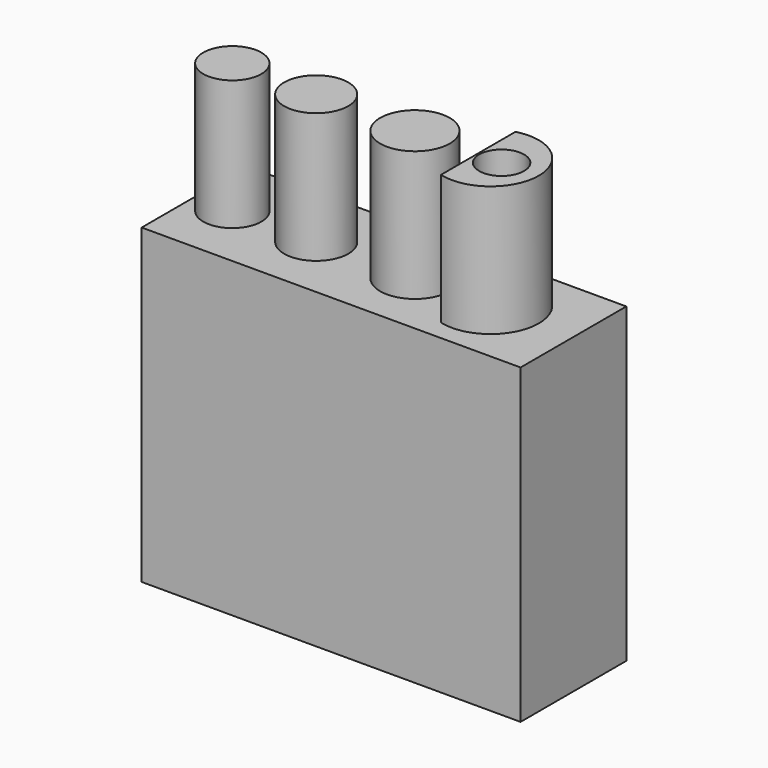
from build123d import *

# Parameters (mm, degrees)
F0_W     = 37.008646
F0_H     = 12.911984
F1_DEPTH = 30.48
F2_R     = 2.838357
F2_R_2   = 3.135029
F2_R_3   = 3.399574
F2_R_4   = 2.191964
F3_DEPTH = 12.7


with BuildPart() as f1:
    # F0 (on Top) → F1 (new body)
    with BuildSketch(Plane.XY):
        Rectangle(F0_W, F0_H)
    extrude(amount=F1_DEPTH)

    # F2 (on face) → F3 (join)
    with BuildSketch(Plane.XY.offset(30.48)):
        with Locations((-14.817033, 0)):
            Circle(F2_R)
        with Locations((-6.624883, 0)):
            Circle(F2_R_2)
        with Locations((3.023651, 0)):
            Circle(F2_R_3)
        with BuildLine():
            Line((9.122252, 4.647307), (9.122252, 0))
            Line((9.122252, 0), (9.122252, -4.455082))
            ThreePointArc((9.122252, -4.455082), (15.042323, 0.096112), (9.122252, 4.647307))
        make_face()
        with Locations((11.488871, 0)):
            Circle(F2_R_4, mode=Mode.SUBTRACT)
    extrude(amount=F3_DEPTH)


solid = f1.part
